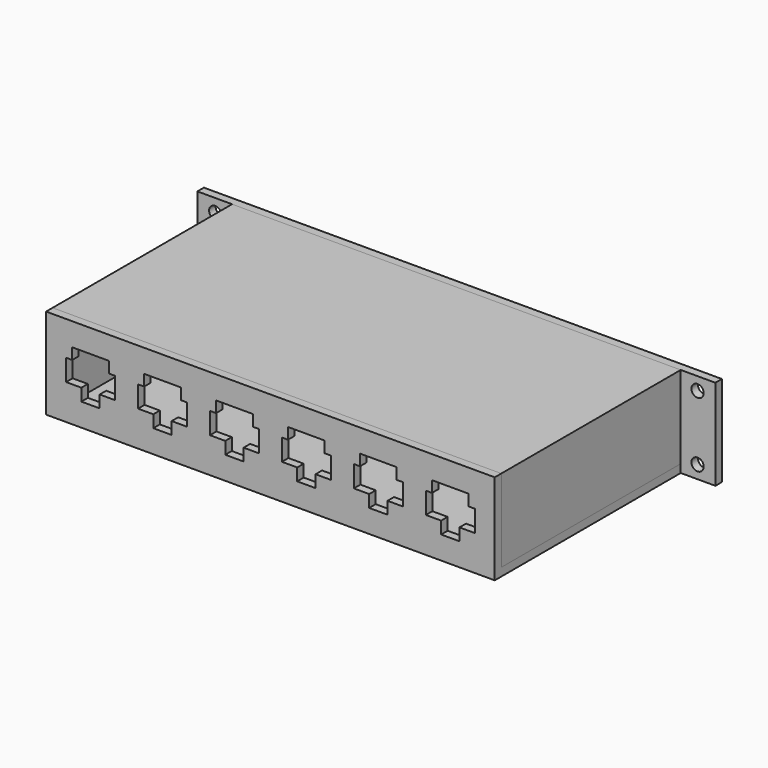
from build123d import *

# Parameters (mm, degrees)
SKETCH_W        = 254
SKETCH_H        = 44.5
SKETCH_R        = 3
PAD_DEPTH       = 4
SKETCH009_W     = 220
SKETCH009_H     = 4
PAD006_DEPTH    = 110
SKETCH010_W     = 220
SKETCH010_H     = 44.5
PAD007_DEPTH    = 4
PAD008_DEPTH    = 4
PAD009_DEPTH    = 4
POCKET_DEPTH    = 4
POCKET001_DEPTH = 4
SKETCH015_R     = 1.75
POCKET002_DEPTH = 4
POCKET003_DEPTH = 2
POCKET003_TAPER = 40
SKETCH017_R     = 3.5
SKETCH017_R_2   = 2.5
POCKET004_DEPTH = 4
SKETCH018_W     = 14
SKETCH018_H     = 28.5
POCKET005_DEPTH = 4
SKETCH019_W     = 16
SKETCH019_H     = 13.7
POCKET006_DEPTH = 4
PAD010_DEPTH    = 110


with BuildPart() as body:
    # Sketch → Pad (new body)
    with BuildSketch(Plane.XZ):
        with Locations((127, 22.25)):
            Rectangle(SKETCH_W, SKETCH_H)
        with Locations((8.7375, 38.125)):
            Circle(SKETCH_R, mode=Mode.SUBTRACT)
        with Locations((8.7375, 6.375)):
            Circle(SKETCH_R, mode=Mode.SUBTRACT)
        with Locations((245.2625, 38.125)):
            Circle(SKETCH_R, mode=Mode.SUBTRACT)
        with Locations((245.2625, 6.375)):
            Circle(SKETCH_R, mode=Mode.SUBTRACT)
    extrude(amount=PAD_DEPTH)

    # Sketch009 → Pad006 (join)
    with BuildSketch(Plane.XZ.offset(4)):
        with Locations((127, 2)):
            Rectangle(SKETCH009_W, SKETCH009_H)
    extrude(amount=PAD006_DEPTH)

    # Sketch010 → Pad007 (join)
    with BuildSketch(Plane.XZ.offset(114)):
        with Locations((127, 22.25)):
            Rectangle(SKETCH010_W, SKETCH010_H)
    extrude(amount=PAD007_DEPTH)

    # Sketch011 → Pad008 (join)
    with BuildSketch(Plane.YZ.offset(19)):
        Polygon((-114, 44.5), (-114, 4), (-4, 4), (-4, 44.5), (-34.5, 14), (-83.5, 14), align=None)
    extrude(amount=PAD008_DEPTH)

    # Sketch012 → Pad009 (join)
    with BuildSketch(Plane.YZ.offset(235)):
        Polygon((-114, 44.5), (-83.5, 14), (-34.5, 14), (-4, 44.5), (-4, 4), (-114, 4), align=None)
    extrude(amount=-PAD009_DEPTH)

    # Sketch013 → Pocket (cut)
    with BuildSketch(Plane.XZ.offset(118)):
        Polygon((29.785714, 33.25), (47.785714, 33.25), (47.785714, 27.75), (50.785714, 27.75), (50.785714, 17.25), (43.285714, 17.25), (43.285714, 11.25), (34.285714, 11.25), (34.285714, 17.25), (26.785714, 17.25), (26.785714, 27.75), (29.785714, 27.75), align=None)
        Polygon((206.214286, 33.25), (224.214286, 33.25), (224.214286, 27.75), (227.214286, 27.75), (227.214286, 17.25), (219.714286, 17.25), (219.714286, 11.25), (210.714286, 11.25), (210.714286, 17.25), (203.214286, 17.25), (203.214286, 27.75), (206.214286, 27.75), align=None)
        Polygon((170.928571, 33.25), (188.928571, 33.25), (188.928571, 27.75), (191.928571, 27.75), (191.928571, 17.25), (184.428571, 17.25), (184.428571, 11.25), (175.428571, 11.25), (175.428571, 17.25), (167.928571, 17.25), (167.928571, 27.75), (170.928571, 27.75), align=None)
        Polygon((135.642857, 33.25), (153.642857, 33.25), (153.642857, 27.75), (156.642857, 27.75), (156.642857, 17.25), (149.142857, 17.25), (149.142857, 11.25), (140.142857, 11.25), (140.142857, 17.25), (132.642857, 17.25), (132.642857, 27.75), (135.642857, 27.75), align=None)
        Polygon((100.357143, 33.25), (118.357143, 33.25), (118.357143, 27.75), (121.357143, 27.75), (121.357143, 17.25), (113.857143, 17.25), (113.857143, 11.25), (104.857143, 11.25), (104.857143, 17.25), (97.357143, 17.25), (97.357143, 27.75), (100.357143, 27.75), align=None)
        Polygon((65.071429, 33.25), (83.071429, 33.25), (83.071429, 27.75), (86.071429, 27.75), (86.071429, 17.25), (78.571429, 17.25), (78.571429, 11.25), (69.571429, 11.25), (69.571429, 17.25), (62.071429, 17.25), (62.071429, 27.75), (65.071429, 27.75), align=None)
    extrude(amount=-POCKET_DEPTH, mode=Mode.SUBTRACT)

    # Sketch014 → Pocket001 (cut)
    with BuildSketch(Plane.XZ):
        Polygon((65.071429, 33.25), (83.071429, 33.25), (83.071429, 27.75), (86.071429, 27.75), (86.071429, 17.25), (78.571429, 17.25), (78.571429, 11.25), (69.571429, 11.25), (69.571429, 17.25), (62.071429, 17.25), (62.071429, 27.75), (65.071429, 27.75), align=None)
        Polygon((29.785714, 33.25), (47.785714, 33.25), (47.785714, 27.75), (50.785714, 27.75), (50.785714, 17.25), (43.285714, 17.25), (43.285714, 11.25), (34.285714, 11.25), (34.285714, 17.25), (26.785714, 17.25), (26.785714, 27.75), (29.785714, 27.75), align=None)
    extrude(amount=POCKET001_DEPTH, mode=Mode.SUBTRACT)

    # Sketch015 → Pocket002 (cut)
    with BuildSketch(Plane.XZ):
        with Locations((181.16, 22.25)):
            Circle(SKETCH015_R)
        with Locations((221.16, 22.25)):
            Circle(SKETCH015_R)
        with BuildLine():
            Line((185.76, 29.65), (185.76, 14.85))
            ThreePointArc((185.76, 14.85), (186.931573, 12.021573), (189.76, 10.85))
            Line((189.76, 10.85), (212.56, 10.85))
            ThreePointArc((212.56, 10.85), (215.388427, 12.021573), (216.56, 14.85))
            Line((216.56, 14.85), (216.56, 29.65))
            ThreePointArc((216.56, 29.65), (215.388427, 32.478427), (212.56, 33.65))
            Line((212.56, 33.65), (189.76, 33.65))
            ThreePointArc((189.76, 33.65), (186.931573, 32.478427), (185.76, 29.65))
        make_face()
    extrude(amount=POCKET002_DEPTH, mode=Mode.SUBTRACT)

    # Sketch016 → Pocket003 (cut)
    with BuildSketch(Plane.XZ.offset(4)):
        with BuildLine():
            Line((188.898205, 35.5), (213.421795, 35.5))
            ThreePointArc((215.799115, 34.716885), (214.673286, 35.29918), (213.421795, 35.5))
            Line((215.799115, 34.716885), (225.225217, 27.750874))
            ThreePointArc((225.225217, 16.749126), (228, 22.25), (225.225217, 27.750874))
            Line((225.225217, 16.749126), (215.799115, 9.783115))
            ThreePointArc((213.421795, 9), (214.673286, 9.20082), (215.799115, 9.783115))
            Line((213.421795, 9), (188.898205, 9))
            ThreePointArc((186.520885, 9.783115), (187.646714, 9.20082), (188.898205, 9))
            Line((186.520885, 9.783115), (177.094783, 16.749126))
            ThreePointArc((177.094783, 27.750874), (174.32, 22.25), (177.094783, 16.749126))
            Line((177.094783, 27.750874), (186.520885, 34.716885))
            ThreePointArc((188.898205, 35.5), (187.646714, 35.29918), (186.520885, 34.716885))
        make_face()
    extrude(amount=-POCKET003_DEPTH, taper=POCKET003_TAPER, mode=Mode.SUBTRACT)

    # Sketch017 → Pocket004 (cut)
    with BuildSketch(Plane.XZ):
        with Locations((126.071429, 26.5)):
            Circle(SKETCH017_R)
        with Locations((115.071429, 26.5)):
            Circle(SKETCH017_R)
        with Locations((104.071429, 26.5)):
            Circle(SKETCH017_R)
        with Locations((93.071429, 26.5)):
            Circle(SKETCH017_R)
        with Locations((126.071429, 9.5)):
            Circle(SKETCH017_R)
        with Locations((115.071429, 9.5)):
            Circle(SKETCH017_R)
        with Locations((104.071429, 9.5)):
            Circle(SKETCH017_R)
        with Locations((93.071429, 9.5)):
            Circle(SKETCH017_R)
        with Locations((93.071429, 18)):
            Circle(SKETCH017_R_2)
        with Locations((104.071429, 18)):
            Circle(SKETCH017_R_2)
        with Locations((115.071429, 18)):
            Circle(SKETCH017_R_2)
        with Locations((126.071429, 18)):
            Circle(SKETCH017_R_2)
        with Locations((126.071429, 35)):
            Circle(SKETCH017_R_2)
        with Locations((115.071429, 35)):
            Circle(SKETCH017_R_2)
        with Locations((104.071429, 35)):
            Circle(SKETCH017_R_2)
        with Locations((93.071429, 35)):
            Circle(SKETCH017_R_2)
    extrude(amount=POCKET004_DEPTH, mode=Mode.SUBTRACT)

    # Sketch018 → Pocket005 (cut)
    with BuildSketch(Plane.XZ):
        with Locations((165.32, 22.25)):
            Rectangle(SKETCH018_W, SKETCH018_H)
    extrude(amount=POCKET005_DEPTH, mode=Mode.SUBTRACT)

    # Sketch019 → Pocket006 (cut)
    with BuildSketch(Plane.XZ):
        with Locations((143.945714, 13.85)):
            Rectangle(SKETCH019_W, SKETCH019_H)
    extrude(amount=POCKET006_DEPTH, mode=Mode.SUBTRACT)


with BuildPart() as body001:
    # Sketch020 → Pad010 (new body)
    with BuildSketch(Plane.XZ.offset(4)):
        Polygon((17, 44.5), (17, 4), (19, 4), (19, 42.5), (235, 42.5), (235, 4), (237, 4), (237, 44.5), align=None)
    extrude(amount=PAD010_DEPTH)


solid = Compound([body.part, body001.part])
